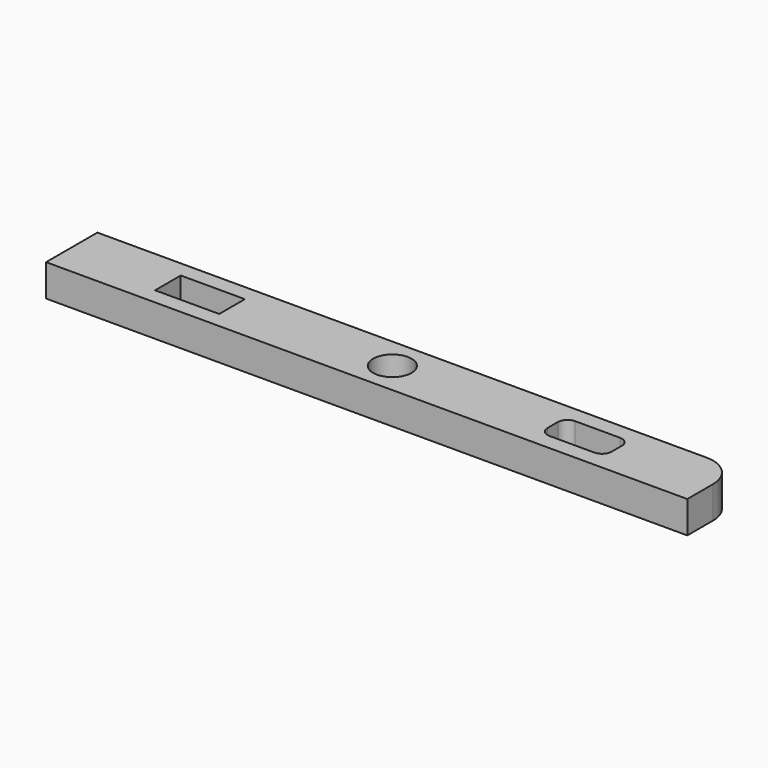
from build123d import *

# Parameters (mm, degrees)
F0_W     = 10
F0_H     = 5
F0_R     = 3
F1_DEPTH = 5


with BuildPart() as f1:
    # F0 (on Top) → F1 (new body)
    with BuildSketch(Plane.XY):
        with BuildLine():
            Line((-50, -5), (50, -5))
            Line((50, -5), (50, 0))
            ThreePointArc((50, 0), (48.535534, 3.535534), (45, 5))
            Line((45, 5), (-50, 5))
            Line((-50, 5), (-50, -5))
        make_face()
        with Locations((-30, 0)):
            Rectangle(F0_W, F0_H, mode=Mode.SUBTRACT)
        Circle(F0_R, mode=Mode.SUBTRACT)
        with BuildLine():
            ThreePointArc((35, -1), (34.56066, -2.06066), (33.5, -2.5))
            Line((33.5, -2.5), (26.5, -2.5))
            ThreePointArc((26.5, -2.5), (25.43934, -2.06066), (25, -1))
            Line((25, -1), (25, 1))
            ThreePointArc((25, 1), (25.43934, 2.06066), (26.5, 2.5))
            Line((26.5, 2.5), (33.5, 2.5))
            ThreePointArc((33.5, 2.5), (34.56066, 2.06066), (35, 1))
            Line((35, 1), (35, -1))
        make_face(mode=Mode.SUBTRACT)
    extrude(amount=F1_DEPTH)


solid = f1.part
